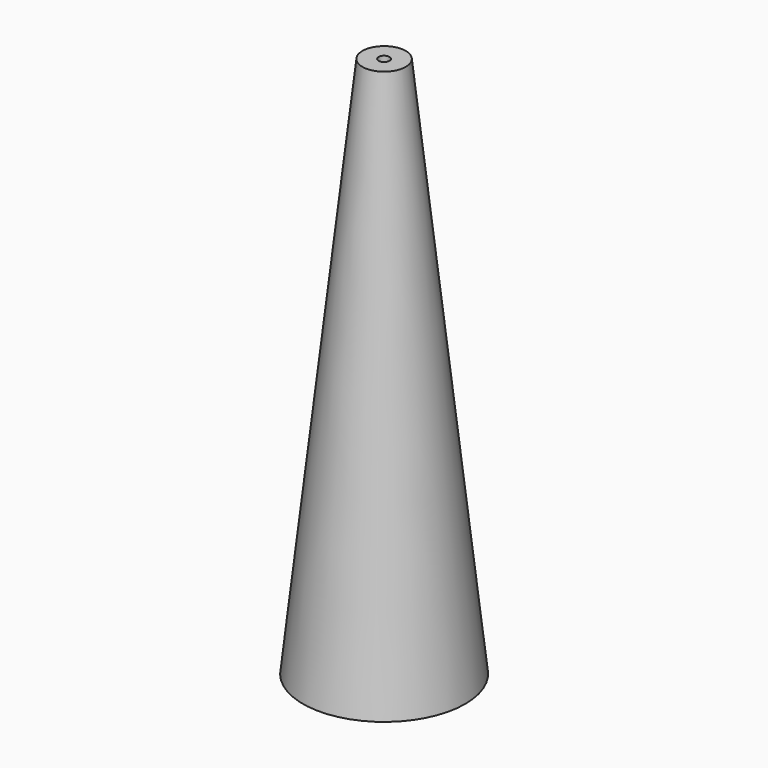
from build123d import *

# Parameters (mm, degrees)
F2_R     = 5
F3_DEPTH = 500.001


with BuildPart() as f1:
    # F0 (on Front) → F1 (revolve)
    with BuildSketch(Plane.XZ):
        Polygon((0, 500), (0, 0), (75, 0), (20, 500), align=None)
    revolve(axis=Axis((0, 0, 250), (0, 0, -1)))

    # F2 (on face) → F3 (cut, through all)
    with BuildSketch(Plane.XY.offset(500)):
        Circle(F2_R)
    extrude(amount=-F3_DEPTH, mode=Mode.SUBTRACT)


solid = f1.part
